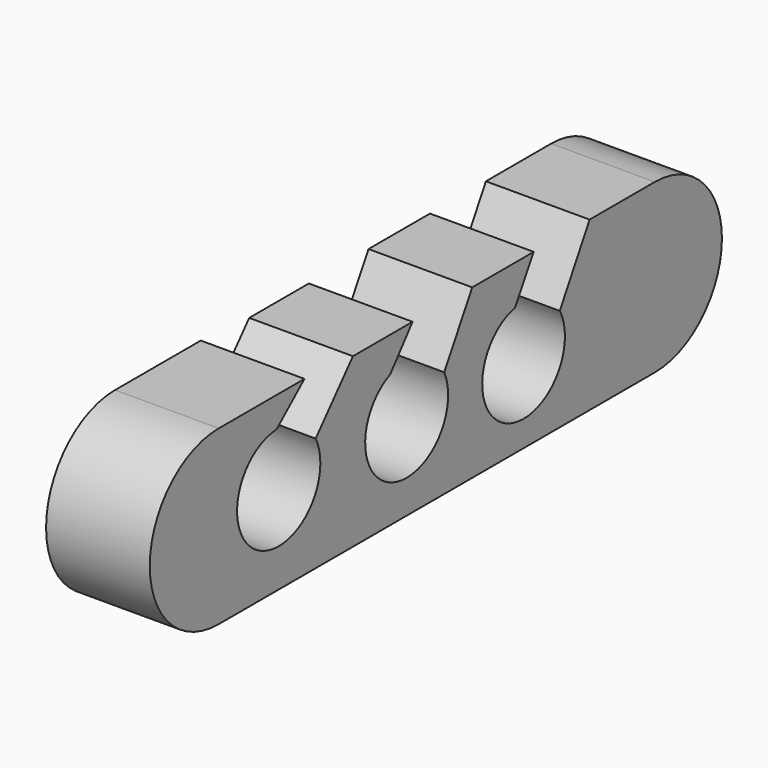
from build123d import *

# Parameters (mm, degrees)
F1_DEPTH = 12.7


with BuildPart() as f1:
    # F0 (on Right) → F1 (new body)
    with BuildSketch(Plane.YZ):
        with BuildLine():
            Line((-21.393048, 17.542299), (-34.514118, 17.542299))
            ThreePointArc((-34.514118, 17.542299), (-45.068021, 6.988395), (-34.514118, -3.565508))
            Line((-34.514118, -3.565508), (32.232191, -3.565508))
            ThreePointArc((32.232191, -3.565508), (42.500855, 6.703156), (32.232191, 16.971819))
            Line((32.232191, 16.971819), (22.248771, 16.971819))
            Line((22.248771, 16.971819), (17.68492, 8.98508))
            ThreePointArc((17.68492, 8.98508), (9.505209, 0.175384), (10.839145, 12.122728))
            Line((10.839145, 12.122728), (13.691551, 16.971819))
            Line((13.691551, 16.971819), (4.27861, 16.971819))
            Line((4.27861, 16.971819), (0, 9.555561))
            ThreePointArc((0, 9.555561), (-8.003835, 0.927338), (-8.271979, 12.693209))
            Line((-8.271979, 12.693209), (-4.849091, 16.971819))
            Line((-4.849091, 16.971819), (-13.976792, 16.971819))
            Line((-13.976792, 16.971819), (-19.681605, 10.411284))
            ThreePointArc((-19.681605, 10.411284), (-28.497019, 1.937048), (-25.671657, 13.834171))
            Line((-25.671657, 13.834171), (-21.393048, 17.542299))
        make_face()
    extrude(amount=F1_DEPTH)


solid = f1.part
